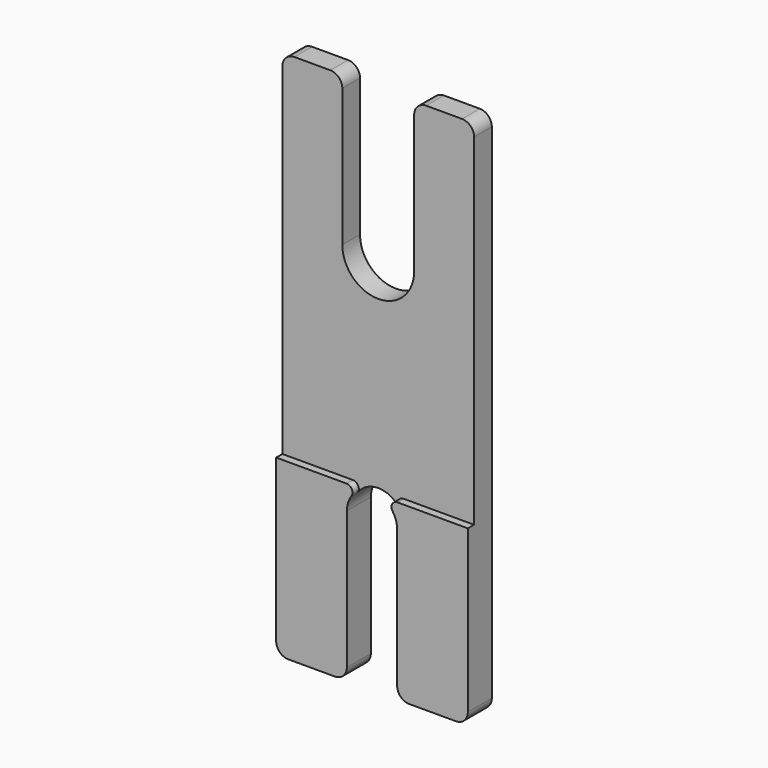
from build123d import *

# Parameters (mm, degrees)
F2_DEPTH = 5
F5_DEPTH = 1.3
F7_R     = 6
F7_R_2   = 4.2
F8_DEPTH = 5.001
F9_R     = 2
F10_R    = 1


with BuildPart() as f2:
    # F1 (on offset) → F2 (new body)
    with BuildSketch(Plane.XZ.offset(13)):
        Polygon((17, 75), (7, 75), (7, -13), (18.8, -13), (18.8, 12), (27.2, 12), (27.2, -13), (39, -13), (39, 75), (29, 75), (29, 50), (17, 50), align=None)
    extrude(amount=F2_DEPTH)

    # F4 (on offset) → F5 (cut)
    with BuildSketch(Plane.XZ.offset(18)):
        Polygon((7, 16), (39, 16), (39, 75), (29, 75), (29, 50), (17, 50), (17, 75), (7, 75), align=None)
    extrude(amount=-F5_DEPTH, mode=Mode.SUBTRACT)

    # F7 (on offset) → F8 (cut, through all)
    with BuildSketch(Plane.XZ.offset(18)):
        with Locations((23, 50)):
            Circle(F7_R)
        with Locations((23, 12)):
            Circle(F7_R_2)
    extrude(amount=-F8_DEPTH, mode=Mode.SUBTRACT)

    # F9
    f9_edges = [f2.edges().sort_by_distance(p)[0] for p in [
        (7, -14.85, 75),
        (17, -14.85, 75),
        (29, -14.85, 75),
        (39, -14.85, 75),
        (7, -15.5, -13),
        (18.8, -15.5, -13),
        (27.2, -15.5, -13),
        (39, -15.5, -13),
    ]]
    fillet(f9_edges, radius=F9_R)

    # F10
    f10_edges = [f2.edges().sort_by_distance(p)[0] for p in [
        (21.719375, -17.35, 16),
        (24.280625, -17.35, 16),
    ]]
    fillet(f10_edges, radius=F10_R)


solid = f2.part
